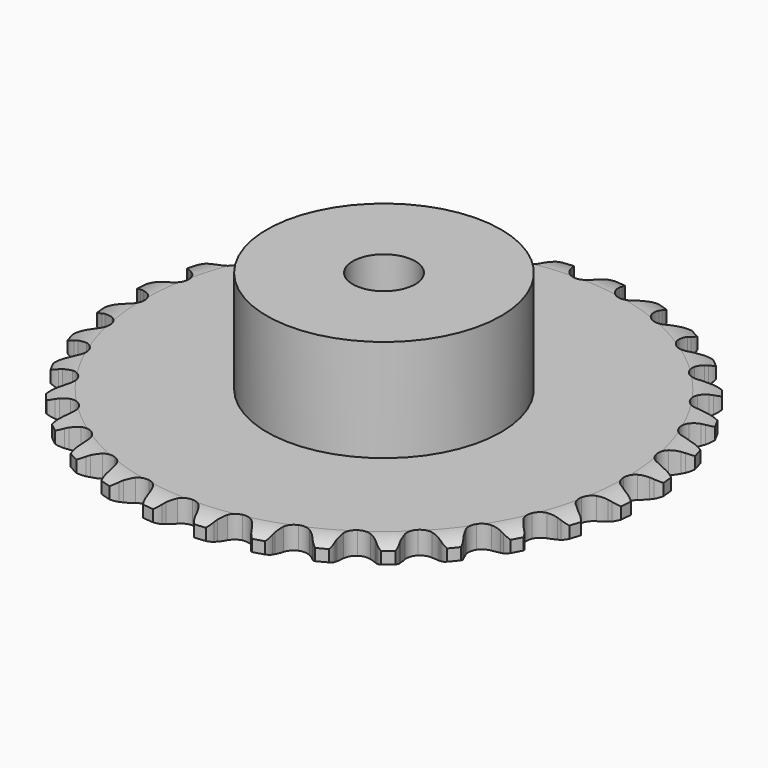
from build123d import *

# Parameters (mm, degrees)
PAD_DEPTH         = 2.9
SKETCH001_R       = 15
PAD001_DEPTH      = 16
SKETCH002_R       = 4
POCKET_DEPTH      = 0.001
POCKET_DEPTH_BACK = 16.001


with BuildPart() as part:
    # Sprocket → Pad (new body)
    with BuildSketch(Plane.XY):
        with BuildLine():
            ThreePointArc((-3.378701, 34.304523), (-2.610459, 33.708719), (-2.107533, 32.876707))
            Line((-2.107533, 32.876707), (-1.946557, 32.449002))
            ThreePointArc((-1.946557, 32.449002), (-1.689935, 31.890746), (-1.356989, 31.374363))
            ThreePointArc((-1.356989, 31.374363), (-0.758563, 30.874998), (0, 30.695944))
            ThreePointArc((0, 30.695944), (0.758563, 30.874998), (1.356989, 31.374363))
            ThreePointArc((1.356989, 31.374363), (1.689935, 31.890746), (1.946557, 32.449002))
            Line((1.946557, 32.449002), (2.107533, 32.876707))
            ThreePointArc((2.107533, 32.876707), (2.610459, 33.708719), (3.378701, 34.304523))
            ThreePointArc((3.378701, 34.304523), (4.015946, 33.570291), (4.34689, 32.65615))
            Line((4.34689, 32.65615), (4.421332, 32.205258))
            ThreePointArc((4.421332, 32.205258), (4.564112, 31.607664), (4.789919, 31.036249))
            ThreePointArc((4.789919, 31.036249), (5.279426, 30.429732), (5.988482, 30.10613))
            ThreePointArc((5.988482, 30.10613), (6.767401, 30.133756), (7.45175, 30.506778))
            Line((7.45175, 30.506778), (8.239641, 31.445749))
            ThreePointArc((8.239641, 31.445749), (8.355187, 31.642971), (8.480965, 31.833831))
            ThreePointArc((8.480965, 31.833831), (9.136544, 32.55174), (10.00626, 32.986219))
            ThreePointArc((10.00626, 32.986219), (10.488019, 32.141775), (10.634264, 31.180635))
            Line((10.634264, 31.180635), (10.619312, 30.723884))
            ThreePointArc((10.619312, 30.723884), (10.642764, 30.109918), (10.752754, 29.505429))
            ThreePointArc((10.752754, 29.505429), (11.114529, 28.815069), (11.746829, 28.359354))
            ThreePointArc((11.746829, 28.359354), (12.516171, 28.234489), (13.260144, 28.466834))
            Line((13.260144, 28.466834), (14.21608, 29.234054))
            ThreePointArc((14.21608, 29.234054), (14.367882, 29.404945), (14.528478, 29.567599))
            ThreePointArc((14.528478, 29.567599), (15.311518, 30.143816), (16.249285, 30.400274))
            ThreePointArc((16.249285, 30.400274), (16.557044, 29.478069), (16.51297, 28.506866))
            Line((16.51297, 28.506866), (16.409197, 28.061808))
            ThreePointArc((16.409197, 28.061808), (16.31242, 27.455064), (16.302367, 26.840732))
            ThreePointArc((16.302367, 26.840732), (16.522508, 26.093058), (17.053753, 25.522744))
            ThreePointArc((17.053753, 25.522744), (17.783952, 25.250188), (18.558958, 25.332926))
            Line((18.558958, 25.332926), (19.646203, 25.89891))
            ThreePointArc((19.646203, 25.89891), (19.828427, 26.036902), (20.01767, 26.1651))
            ThreePointArc((20.01767, 26.1651), (20.898078, 26.577483), (21.867859, 26.646063))
            ThreePointArc((21.867859, 26.646063), (21.989791, 25.681537), (21.757091, 24.737594))
            Line((21.757091, 24.737594), (21.568486, 24.321333))
            ThreePointArc((21.568486, 24.321333), (21.355198, 23.745127), (21.225488, 23.144561))
            ThreePointArc((21.225488, 23.144561), (21.295536, 22.368306), (21.70531, 21.70531))
            ThreePointArc((21.70531, 21.70531), (22.368306, 21.295536), (23.144561, 21.225488))
            Line((23.144561, 21.225488), (24.321333, 21.568486))
            ThreePointArc((24.321333, 21.568486), (24.526977, 21.668276), (24.737594, 21.757091))
            ThreePointArc((24.737594, 21.757091), (25.681537, 21.989791), (26.646063, 21.867859))
            ThreePointArc((26.646063, 21.867859), (26.577483, 20.898078), (26.1651, 20.01767))
            Line((26.1651, 20.01767), (25.89891, 19.646203))
            ThreePointArc((25.89891, 19.646203), (25.577309, 19.122679), (25.332926, 18.558958))
            ThreePointArc((25.332926, 18.558958), (25.250188, 17.783952), (25.522744, 17.053753))
            ThreePointArc((25.522744, 17.053753), (26.093058, 16.522508), (26.840732, 16.302367))
            Line((26.840732, 16.302367), (28.061808, 16.409197))
            ThreePointArc((28.061808, 16.409197), (28.282969, 16.46695), (28.506866, 16.51297))
            ThreePointArc((28.506866, 16.51297), (29.478069, 16.557044), (30.400274, 16.249285))
            ThreePointArc((30.400274, 16.249285), (30.143816, 15.311518), (29.567599, 14.528478))
            Line((29.567599, 14.528478), (29.234054, 14.21608))
            ThreePointArc((29.234054, 14.21608), (28.816497, 13.765357), (28.466834, 13.260144))
            ThreePointArc((28.466834, 13.260144), (28.234489, 12.516171), (28.359354, 11.746829))
            ThreePointArc((28.359354, 11.746829), (28.815069, 11.114529), (29.505429, 10.752754))
            Line((29.505429, 10.752754), (30.723884, 10.619312))
            ThreePointArc((30.723884, 10.619312), (30.952062, 10.632809), (31.180635, 10.634264))
            ThreePointArc((31.180635, 10.634264), (32.141775, 10.488019), (32.986219, 10.00626))
            ThreePointArc((32.986219, 10.00626), (32.55174, 9.136544), (31.833831, 8.480965))
            Line((31.833831, 8.480965), (31.445749, 8.239641))
            ThreePointArc((31.445749, 8.239641), (30.948284, 7.879039), (30.506778, 7.45175))
            ThreePointArc((30.506778, 7.45175), (30.133756, 6.767401), (30.10613, 5.988482))
            ThreePointArc((30.10613, 5.988482), (30.429732, 5.279426), (31.036249, 4.789919))
            Line((31.036249, 4.789919), (32.205258, 4.421332))
            ThreePointArc((32.205258, 4.421332), (32.431685, 4.390055), (32.65615, 4.34689))
            ThreePointArc((32.65615, 4.34689), (33.570291, 4.015946), (34.304523, 3.378701))
            ThreePointArc((34.304523, 3.378701), (33.708719, 2.610459), (32.876707, 2.107533))
            Line((32.876707, 2.107533), (32.449002, 1.946557))
            ThreePointArc((32.449002, 1.946557), (31.890746, 1.689935), (31.374363, 1.356989))
            ThreePointArc((31.374363, 1.356989), (30.874998, 0.758563), (30.695944, 0))
            ThreePointArc((30.695944, 0), (30.874998, -0.758563), (31.374363, -1.356989))
            Line((31.374363, -1.356989), (32.449002, -1.946557))
            ThreePointArc((32.449002, -1.946557), (32.664977, -2.021407), (32.876707, -2.107533))
            ThreePointArc((32.876707, -2.107533), (33.708719, -2.610459), (34.304523, -3.378701))
            ThreePointArc((34.304523, -3.378701), (33.570291, -4.015946), (32.65615, -4.34689))
            Line((32.65615, -4.34689), (32.205258, -4.421332))
            ThreePointArc((32.205258, -4.421332), (31.607664, -4.564112), (31.036249, -4.789919))
            ThreePointArc((31.036249, -4.789919), (30.429732, -5.279426), (30.10613, -5.988482))
            ThreePointArc((30.10613, -5.988482), (30.133756, -6.767401), (30.506778, -7.45175))
            Line((30.506778, -7.45175), (31.445749, -8.239641))
            ThreePointArc((31.445749, -8.239641), (31.642971, -8.355187), (31.833831, -8.480965))
            ThreePointArc((31.833831, -8.480965), (32.55174, -9.136544), (32.986219, -10.00626))
            ThreePointArc((32.986219, -10.00626), (32.141775, -10.488019), (31.180635, -10.634264))
            Line((31.180635, -10.634264), (30.723884, -10.619312))
            ThreePointArc((30.723884, -10.619312), (30.109918, -10.642764), (29.505429, -10.752754))
            ThreePointArc((29.505429, -10.752754), (28.815069, -11.114529), (28.359354, -11.746829))
            ThreePointArc((28.359354, -11.746829), (28.234489, -12.516171), (28.466834, -13.260144))
            Line((28.466834, -13.260144), (29.234054, -14.21608))
            ThreePointArc((29.234054, -14.21608), (29.404945, -14.367882), (29.567599, -14.528478))
            ThreePointArc((29.567599, -14.528478), (30.143816, -15.311518), (30.400274, -16.249285))
            ThreePointArc((30.400274, -16.249285), (29.478069, -16.557044), (28.506866, -16.51297))
            Line((28.506866, -16.51297), (28.061808, -16.409197))
            ThreePointArc((28.061808, -16.409197), (27.455064, -16.31242), (26.840732, -16.302367))
            ThreePointArc((26.840732, -16.302367), (26.093058, -16.522508), (25.522744, -17.053753))
            ThreePointArc((25.522744, -17.053753), (25.250188, -17.783952), (25.332926, -18.558958))
            Line((25.332926, -18.558958), (25.89891, -19.646203))
            ThreePointArc((25.89891, -19.646203), (26.036902, -19.828427), (26.1651, -20.01767))
            ThreePointArc((26.1651, -20.01767), (26.577483, -20.898078), (26.646063, -21.867859))
            ThreePointArc((26.646063, -21.867859), (25.681537, -21.989791), (24.737594, -21.757091))
            Line((24.737594, -21.757091), (24.321333, -21.568486))
            ThreePointArc((24.321333, -21.568486), (23.745127, -21.355198), (23.144561, -21.225488))
            ThreePointArc((23.144561, -21.225488), (22.368306, -21.295536), (21.70531, -21.70531))
            ThreePointArc((21.70531, -21.70531), (21.295536, -22.368306), (21.225488, -23.144561))
            Line((21.225488, -23.144561), (21.568486, -24.321333))
            ThreePointArc((21.568486, -24.321333), (21.668276, -24.526977), (21.757091, -24.737594))
            ThreePointArc((21.757091, -24.737594), (21.989791, -25.681537), (21.867859, -26.646063))
            ThreePointArc((21.867859, -26.646063), (20.898078, -26.577483), (20.01767, -26.1651))
            Line((20.01767, -26.1651), (19.646203, -25.89891))
            ThreePointArc((19.646203, -25.89891), (19.122679, -25.577309), (18.558958, -25.332926))
            ThreePointArc((18.558958, -25.332926), (17.783952, -25.250188), (17.053753, -25.522744))
            ThreePointArc((17.053753, -25.522744), (16.522508, -26.093058), (16.302367, -26.840732))
            Line((16.302367, -26.840732), (16.409197, -28.061808))
            ThreePointArc((16.409197, -28.061808), (16.46695, -28.282969), (16.51297, -28.506866))
            ThreePointArc((16.51297, -28.506866), (16.557044, -29.478069), (16.249285, -30.400274))
            ThreePointArc((16.249285, -30.400274), (15.311518, -30.143816), (14.528478, -29.567599))
            Line((14.528478, -29.567599), (14.21608, -29.234054))
            ThreePointArc((14.21608, -29.234054), (13.765357, -28.816497), (13.260144, -28.466834))
            ThreePointArc((13.260144, -28.466834), (12.516171, -28.234489), (11.746829, -28.359354))
            ThreePointArc((11.746829, -28.359354), (11.114529, -28.815069), (10.752754, -29.505429))
            Line((10.752754, -29.505429), (10.619312, -30.723884))
            ThreePointArc((10.619312, -30.723884), (10.632809, -30.952062), (10.634264, -31.180635))
            ThreePointArc((10.634264, -31.180635), (10.488019, -32.141775), (10.00626, -32.986219))
            ThreePointArc((10.00626, -32.986219), (9.136544, -32.55174), (8.480965, -31.833831))
            Line((8.480965, -31.833831), (8.239641, -31.445749))
            ThreePointArc((8.239641, -31.445749), (7.879039, -30.948284), (7.45175, -30.506778))
            ThreePointArc((7.45175, -30.506778), (6.767401, -30.133756), (5.988482, -30.10613))
            ThreePointArc((5.988482, -30.10613), (5.279426, -30.429732), (4.789919, -31.036249))
            Line((4.789919, -31.036249), (4.421332, -32.205258))
            ThreePointArc((4.421332, -32.205258), (4.390055, -32.431685), (4.34689, -32.65615))
            ThreePointArc((4.34689, -32.65615), (4.015946, -33.570291), (3.378701, -34.304523))
            ThreePointArc((3.378701, -34.304523), (2.610459, -33.708719), (2.107533, -32.876707))
            Line((2.107533, -32.876707), (1.946557, -32.449002))
            ThreePointArc((1.946557, -32.449002), (1.689935, -31.890746), (1.356989, -31.374363))
            ThreePointArc((1.356989, -31.374363), (0.758563, -30.874998), (0, -30.695944))
            ThreePointArc((0, -30.695944), (-0.758563, -30.874998), (-1.356989, -31.374363))
            Line((-1.356989, -31.374363), (-1.946557, -32.449002))
            ThreePointArc((-1.946557, -32.449002), (-2.021407, -32.664977), (-2.107533, -32.876707))
            ThreePointArc((-2.107533, -32.876707), (-2.610459, -33.708719), (-3.378701, -34.304523))
            ThreePointArc((-3.378701, -34.304523), (-4.015946, -33.570291), (-4.34689, -32.65615))
            Line((-4.34689, -32.65615), (-4.421332, -32.205258))
            ThreePointArc((-4.421332, -32.205258), (-4.564112, -31.607664), (-4.789919, -31.036249))
            ThreePointArc((-4.789919, -31.036249), (-5.279426, -30.429732), (-5.988482, -30.10613))
            ThreePointArc((-5.988482, -30.10613), (-6.767401, -30.133756), (-7.45175, -30.506778))
            Line((-7.45175, -30.506778), (-8.239641, -31.445749))
            ThreePointArc((-8.239641, -31.445749), (-8.355187, -31.642971), (-8.480965, -31.833831))
            ThreePointArc((-8.480965, -31.833831), (-9.136544, -32.55174), (-10.00626, -32.986219))
            ThreePointArc((-10.00626, -32.986219), (-10.488019, -32.141775), (-10.634264, -31.180635))
            Line((-10.634264, -31.180635), (-10.619312, -30.723884))
            ThreePointArc((-10.619312, -30.723884), (-10.642764, -30.109918), (-10.752754, -29.505429))
            ThreePointArc((-10.752754, -29.505429), (-11.114529, -28.815069), (-11.746829, -28.359354))
            ThreePointArc((-11.746829, -28.359354), (-12.516171, -28.234489), (-13.260144, -28.466834))
            Line((-13.260144, -28.466834), (-14.21608, -29.234054))
            ThreePointArc((-14.21608, -29.234054), (-14.367882, -29.404945), (-14.528478, -29.567599))
            ThreePointArc((-14.528478, -29.567599), (-15.311518, -30.143816), (-16.249285, -30.400274))
            ThreePointArc((-16.249285, -30.400274), (-16.557044, -29.478069), (-16.51297, -28.506866))
            Line((-16.51297, -28.506866), (-16.409197, -28.061808))
            ThreePointArc((-16.409197, -28.061808), (-16.31242, -27.455064), (-16.302367, -26.840732))
            ThreePointArc((-16.302367, -26.840732), (-16.522508, -26.093058), (-17.053753, -25.522744))
            ThreePointArc((-17.053753, -25.522744), (-17.783952, -25.250188), (-18.558958, -25.332926))
            Line((-18.558958, -25.332926), (-19.646203, -25.89891))
            ThreePointArc((-19.646203, -25.89891), (-19.828427, -26.036902), (-20.01767, -26.1651))
            ThreePointArc((-20.01767, -26.1651), (-20.898078, -26.577483), (-21.867859, -26.646063))
            ThreePointArc((-21.867859, -26.646063), (-21.989791, -25.681537), (-21.757091, -24.737594))
            Line((-21.757091, -24.737594), (-21.568486, -24.321333))
            ThreePointArc((-21.568486, -24.321333), (-21.355198, -23.745127), (-21.225488, -23.144561))
            ThreePointArc((-21.225488, -23.144561), (-21.295536, -22.368306), (-21.70531, -21.70531))
            ThreePointArc((-21.70531, -21.70531), (-22.368306, -21.295536), (-23.144561, -21.225488))
            Line((-23.144561, -21.225488), (-24.321333, -21.568486))
            ThreePointArc((-24.321333, -21.568486), (-24.526977, -21.668276), (-24.737594, -21.757091))
            ThreePointArc((-24.737594, -21.757091), (-25.681537, -21.989791), (-26.646063, -21.867859))
            ThreePointArc((-26.646063, -21.867859), (-26.577483, -20.898078), (-26.1651, -20.01767))
            Line((-26.1651, -20.01767), (-25.89891, -19.646203))
            ThreePointArc((-25.89891, -19.646203), (-25.577309, -19.122679), (-25.332926, -18.558958))
            ThreePointArc((-25.332926, -18.558958), (-25.250188, -17.783952), (-25.522744, -17.053753))
            ThreePointArc((-25.522744, -17.053753), (-26.093058, -16.522508), (-26.840732, -16.302367))
            Line((-26.840732, -16.302367), (-28.061808, -16.409197))
            ThreePointArc((-28.061808, -16.409197), (-28.282969, -16.46695), (-28.506866, -16.51297))
            ThreePointArc((-28.506866, -16.51297), (-29.478069, -16.557044), (-30.400274, -16.249285))
            ThreePointArc((-30.400274, -16.249285), (-30.143816, -15.311518), (-29.567599, -14.528478))
            Line((-29.567599, -14.528478), (-29.234054, -14.21608))
            ThreePointArc((-29.234054, -14.21608), (-28.816497, -13.765357), (-28.466834, -13.260144))
            ThreePointArc((-28.466834, -13.260144), (-28.234489, -12.516171), (-28.359354, -11.746829))
            ThreePointArc((-28.359354, -11.746829), (-28.815069, -11.114529), (-29.505429, -10.752754))
            Line((-29.505429, -10.752754), (-30.723884, -10.619312))
            ThreePointArc((-30.723884, -10.619312), (-30.952062, -10.632809), (-31.180635, -10.634264))
            ThreePointArc((-31.180635, -10.634264), (-32.141775, -10.488019), (-32.986219, -10.00626))
            ThreePointArc((-32.986219, -10.00626), (-32.55174, -9.136544), (-31.833831, -8.480965))
            Line((-31.833831, -8.480965), (-31.445749, -8.239641))
            ThreePointArc((-31.445749, -8.239641), (-30.948284, -7.879039), (-30.506778, -7.45175))
            ThreePointArc((-30.506778, -7.45175), (-30.133756, -6.767401), (-30.10613, -5.988482))
            ThreePointArc((-30.10613, -5.988482), (-30.429732, -5.279426), (-31.036249, -4.789919))
            Line((-31.036249, -4.789919), (-32.205258, -4.421332))
            ThreePointArc((-32.205258, -4.421332), (-32.431685, -4.390055), (-32.65615, -4.34689))
            ThreePointArc((-32.65615, -4.34689), (-33.570291, -4.015946), (-34.304523, -3.378701))
            ThreePointArc((-34.304523, -3.378701), (-33.708719, -2.610459), (-32.876707, -2.107533))
            Line((-32.876707, -2.107533), (-32.449002, -1.946557))
            ThreePointArc((-32.449002, -1.946557), (-31.890746, -1.689935), (-31.374363, -1.356989))
            ThreePointArc((-31.374363, -1.356989), (-30.874998, -0.758563), (-30.695944, 0))
            ThreePointArc((-30.695944, 0), (-30.874998, 0.758563), (-31.374363, 1.356989))
            Line((-31.374363, 1.356989), (-32.449002, 1.946557))
            ThreePointArc((-32.449002, 1.946557), (-32.664977, 2.021407), (-32.876707, 2.107533))
            ThreePointArc((-32.876707, 2.107533), (-33.708719, 2.610459), (-34.304523, 3.378701))
            ThreePointArc((-34.304523, 3.378701), (-33.570291, 4.015946), (-32.65615, 4.34689))
            Line((-32.65615, 4.34689), (-32.205258, 4.421332))
            ThreePointArc((-32.205258, 4.421332), (-31.607664, 4.564112), (-31.036249, 4.789919))
            ThreePointArc((-31.036249, 4.789919), (-30.429732, 5.279426), (-30.10613, 5.988482))
            ThreePointArc((-30.10613, 5.988482), (-30.133756, 6.767401), (-30.506778, 7.45175))
            Line((-30.506778, 7.45175), (-31.445749, 8.239641))
            ThreePointArc((-31.445749, 8.239641), (-31.642971, 8.355187), (-31.833831, 8.480965))
            ThreePointArc((-31.833831, 8.480965), (-32.55174, 9.136544), (-32.986219, 10.00626))
            ThreePointArc((-32.986219, 10.00626), (-32.141775, 10.488019), (-31.180635, 10.634264))
            Line((-31.180635, 10.634264), (-30.723884, 10.619312))
            ThreePointArc((-30.723884, 10.619312), (-30.109918, 10.642764), (-29.505429, 10.752754))
            ThreePointArc((-29.505429, 10.752754), (-28.815069, 11.114529), (-28.359354, 11.746829))
            ThreePointArc((-28.359354, 11.746829), (-28.234489, 12.516171), (-28.466834, 13.260144))
            Line((-28.466834, 13.260144), (-29.234054, 14.21608))
            ThreePointArc((-29.234054, 14.21608), (-29.404945, 14.367882), (-29.567599, 14.528478))
            ThreePointArc((-29.567599, 14.528478), (-30.143816, 15.311518), (-30.400274, 16.249285))
            ThreePointArc((-30.400274, 16.249285), (-29.478069, 16.557044), (-28.506866, 16.51297))
            Line((-28.506866, 16.51297), (-28.061808, 16.409197))
            ThreePointArc((-28.061808, 16.409197), (-27.455064, 16.31242), (-26.840732, 16.302367))
            ThreePointArc((-26.840732, 16.302367), (-26.093058, 16.522508), (-25.522744, 17.053753))
            ThreePointArc((-25.522744, 17.053753), (-25.250188, 17.783952), (-25.332926, 18.558958))
            Line((-25.332926, 18.558958), (-25.89891, 19.646203))
            ThreePointArc((-25.89891, 19.646203), (-26.036902, 19.828427), (-26.1651, 20.01767))
            ThreePointArc((-26.1651, 20.01767), (-26.577483, 20.898078), (-26.646063, 21.867859))
            ThreePointArc((-26.646063, 21.867859), (-25.681537, 21.989791), (-24.737594, 21.757091))
            Line((-24.737594, 21.757091), (-24.321333, 21.568486))
            ThreePointArc((-24.321333, 21.568486), (-23.745127, 21.355198), (-23.144561, 21.225488))
            ThreePointArc((-23.144561, 21.225488), (-22.368306, 21.295536), (-21.70531, 21.70531))
            ThreePointArc((-21.70531, 21.70531), (-21.295536, 22.368306), (-21.225488, 23.144561))
            Line((-21.225488, 23.144561), (-21.568486, 24.321333))
            ThreePointArc((-21.568486, 24.321333), (-21.668276, 24.526977), (-21.757091, 24.737594))
            ThreePointArc((-21.757091, 24.737594), (-21.989791, 25.681537), (-21.867859, 26.646063))
            ThreePointArc((-21.867859, 26.646063), (-20.898078, 26.577483), (-20.01767, 26.1651))
            Line((-20.01767, 26.1651), (-19.646203, 25.89891))
            ThreePointArc((-19.646203, 25.89891), (-19.122679, 25.577309), (-18.558958, 25.332926))
            ThreePointArc((-18.558958, 25.332926), (-17.783952, 25.250188), (-17.053753, 25.522744))
            ThreePointArc((-17.053753, 25.522744), (-16.522508, 26.093058), (-16.302367, 26.840732))
            Line((-16.302367, 26.840732), (-16.409197, 28.061808))
            ThreePointArc((-16.409197, 28.061808), (-16.46695, 28.282969), (-16.51297, 28.506866))
            ThreePointArc((-16.51297, 28.506866), (-16.557044, 29.478069), (-16.249285, 30.400274))
            ThreePointArc((-16.249285, 30.400274), (-15.311518, 30.143816), (-14.528478, 29.567599))
            Line((-14.528478, 29.567599), (-14.21608, 29.234054))
            ThreePointArc((-14.21608, 29.234054), (-13.765357, 28.816497), (-13.260144, 28.466834))
            ThreePointArc((-13.260144, 28.466834), (-12.516171, 28.234489), (-11.746829, 28.359354))
            ThreePointArc((-11.746829, 28.359354), (-11.114529, 28.815069), (-10.752754, 29.505429))
            Line((-10.752754, 29.505429), (-10.619312, 30.723884))
            ThreePointArc((-10.619312, 30.723884), (-10.632809, 30.952062), (-10.634264, 31.180635))
            ThreePointArc((-10.634264, 31.180635), (-10.488019, 32.141775), (-10.00626, 32.986219))
            ThreePointArc((-10.00626, 32.986219), (-9.136544, 32.55174), (-8.480965, 31.833831))
            Line((-8.480965, 31.833831), (-8.239641, 31.445749))
            ThreePointArc((-8.239641, 31.445749), (-7.879039, 30.948284), (-7.45175, 30.506778))
            ThreePointArc((-7.45175, 30.506778), (-6.767401, 30.133756), (-5.988482, 30.10613))
            ThreePointArc((-5.988482, 30.10613), (-5.279426, 30.429732), (-4.789919, 31.036249))
            Line((-4.789919, 31.036249), (-4.421332, 32.205258))
            ThreePointArc((-4.421332, 32.205258), (-4.390055, 32.431685), (-4.34689, 32.65615))
            ThreePointArc((-4.34689, 32.65615), (-4.015946, 33.570291), (-3.378701, 34.304523))
        make_face()
    extrude(amount=PAD_DEPTH)

    # Sketch → Groove (revolve, cut)
    with BuildSketch(Plane.XZ):
        with BuildLine():
            Line((30.889674, 0), (33.8, 0))
            Line((36.710326, 0), (33.8, 0))
            Line((36.710326, 2.9), (36.710326, 0))
            Line((33.8, 2.9), (36.710326, 2.9))
            Line((30.889674, 2.9), (33.8, 2.9))
            ThreePointArc((33.8, 2.2), (32.386337, 2.72254), (30.889674, 2.9))
            Line((33.8, 0.7), (33.8, 2.2))
            ThreePointArc((30.889674, 0), (32.386337, 0.17746), (33.8, 0.7))
        make_face()
    revolve(axis=Axis((0, 0, 0), (0, 0, 1)), mode=Mode.SUBTRACT)

    # Sketch001 → Pad001 (join)
    with BuildSketch(Plane.XY):
        Circle(SKETCH001_R)
    extrude(amount=PAD001_DEPTH)

    # Sketch002 → Pocket (cut, two sides)
    with BuildSketch(Plane.XY) as pocket_sk:
        Circle(SKETCH002_R)
    extrude(amount=-POCKET_DEPTH, mode=Mode.SUBTRACT)
    extrude(pocket_sk.sketch, amount=POCKET_DEPTH_BACK, mode=Mode.SUBTRACT)


solid = part.part
